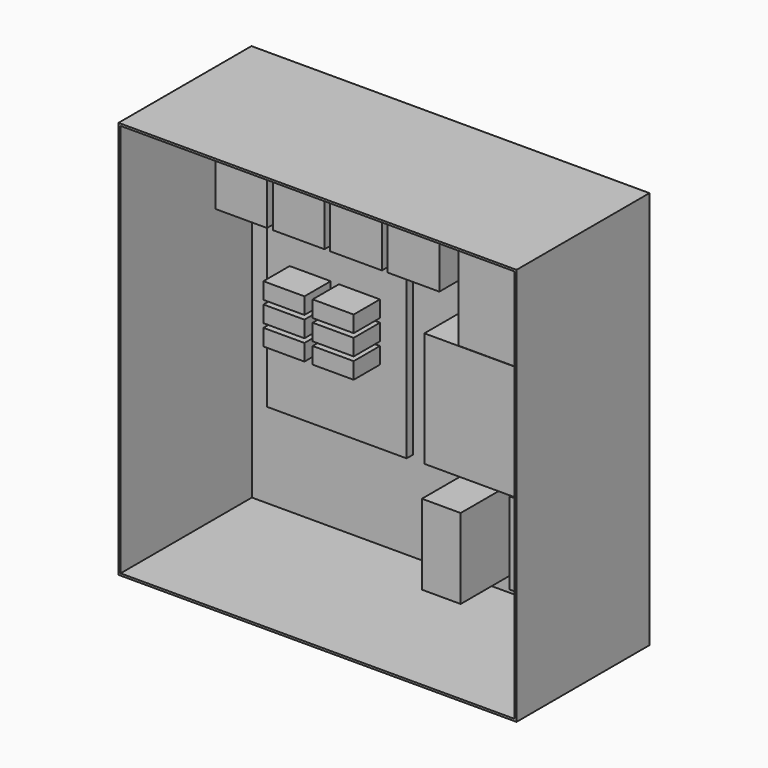
from build123d import *

# Parameters (mm, degrees)
F0_W      = 615.95
F0_H      = 615.95
F0_W_2    = 609.6
F0_H_2    = 609.6
F1_DEPTH  = 257.175
F2_W      = 609.6
F2_H      = 3.175
F3_DEPTH  = 609.6
F4_W      = 80.01
F4_H      = 119.888
F5_DEPTH  = 115.062
F9_W      = 139.954
F9_H      = 180.086
F10_DEPTH = 138.938
F11_W     = 215.9
F11_H     = 279.4
F12_DEPTH = 12.7
F13_W     = 63.5
F13_H     = 25.4
F14_DEPTH = 50.8
F20_W     = 127
F20_H     = 127
F21_DEPTH = 53.975
F22_W     = 241.3
F22_H     = 177.8
F23_DEPTH = 76.2
F24_W     = 59.944
F24_H     = 123.952
F25_DEPTH = 117.094


with BuildPart() as f1:
    # F0 (on Front) → F1 (new body)
    with BuildSketch(Plane.XZ):
        Rectangle(F0_W, F0_H)
        Rectangle(F0_W_2, F0_H_2, mode=Mode.SUBTRACT)
    extrude(amount=F1_DEPTH)

    # F2 (on face) → F3 (join, through all)
    with BuildSketch(Plane(origin=(0, 0, 304.8), x_dir=(1, 0, 0), z_dir=(0, 0, -1))):
        with Locations((0, 1.5875)):
            Rectangle(F2_W, F2_H)
    extrude(amount=F3_DEPTH)


with BuildPart() as f5:
    # F4 (on face) → F5 (new body)
    with BuildSketch(Plane.XZ.offset(3.175)):
        with Locations((-229.304421, 206.707478)):
            Rectangle(F4_W, F4_H)
    extrude(amount=F5_DEPTH)


with BuildPart() as f6_1:
    # F6: copy of F5
    add(f5.part.moved(Location((88.9, 0, 0))))


with BuildPart() as f7_1:
    # F7: copy of F6_1
    add(f6_1.part.moved(Location((88.9, 0, 0))))


with BuildPart() as f8_1:
    # F8: copy of F7_1
    add(f7_1.part.moved(Location((88.9, 0, 0))))


with BuildPart() as f10:
    # F9 (on face) → F10 (new body)
    with BuildSketch(Plane.XZ.offset(3.175)):
        with Locations((196.202227, 188.796051)):
            Rectangle(F9_W, F9_H)
    extrude(amount=F10_DEPTH)


with BuildPart() as f12:
    # F11 (on face) → F12 (new body)
    with BuildSketch(Plane.XZ.offset(3.175)):
        with Locations((-163.139148, -25.4)):
            Rectangle(F11_W, F11_H)
    extrude(amount=F12_DEPTH)


with BuildPart() as f14:
    # F13 (on face) → F14 (new body)
    with BuildSketch(Plane.XZ.offset(15.875)):
        with Locations((-204.414148, 25.4)):
            Rectangle(F13_W, F13_H)
    extrude(amount=F14_DEPTH)


with BuildPart() as f15_1:
    # F15: copy of F14
    add(f14.part.moved(Location((0, 0, -31.75))))


with BuildPart() as f16_1:
    # F16: copy of F14
    add(f14.part.moved(Location((76.2, 0, 0))))


with BuildPart() as f17_1:
    # F17: copy of F15_1
    add(f15_1.part.moved(Location((76.2, 0, 0))))


with BuildPart() as f18_1:
    # F18: copy of F15_1
    add(f15_1.part.moved(Location((0, 0, -31.75))))


with BuildPart() as f19_1:
    # F19: copy of F18_1
    add(f18_1.part.moved(Location((76.2, 0, 0))))


with BuildPart() as f21:
    # F20 (on face) → F21 (new body)
    with BuildSketch(Plane.XZ.offset(3.175)):
        with Locations((200.898372, -200.953409)):
            Rectangle(F20_W, F20_H)
    extrude(amount=F21_DEPTH)


with BuildPart() as f23:
    # F22 (on face) → F23 (new body)
    with BuildSketch(Plane.XZ.offset(3.175)):
        with Locations((143.775463, -32.343111)):
            Rectangle(F22_W, F22_H)
    extrude(amount=F23_DEPTH)


with BuildPart() as f25:
    # F24 (on face) → F25 (new body)
    with BuildSketch(Plane.XZ.offset(3.175)):
        with Locations((82.026372, -204.724)):
            Rectangle(F24_W, F24_H)
    extrude(amount=F25_DEPTH)


solid = Compound([f1.part, f5.part, f6_1.part, f7_1.part, f8_1.part, f10.part, f12.part, f14.part, f15_1.part, f16_1.part, f17_1.part, f18_1.part, f19_1.part, f21.part, f23.part, f25.part])
